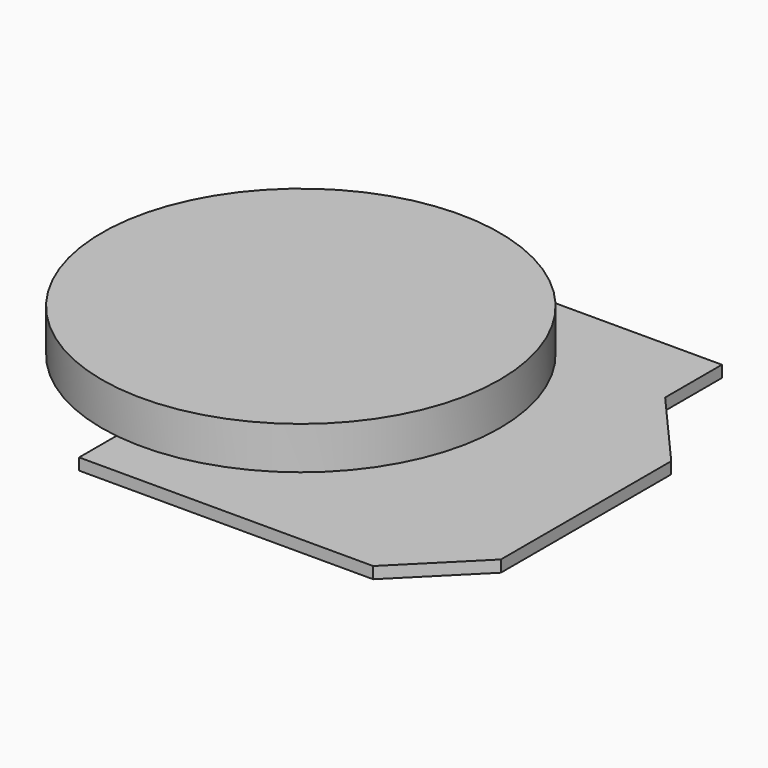
from build123d import *

# Parameters (mm, degrees)
F1_DEPTH = 0.5842
F2_R     = 9.9695
F3_DEPTH = 2.1336


with BuildPart() as f1:
    # F0 (on Top) → F1 (new body)
    with BuildSketch(Plane.XY):
        Polygon((-9.144, 12.2174), (-9.144, -12.2174), (5.588, -12.2174), (9.144, -8.6614), (9.144, 2.0066), (5.588, 6.0706), (5.588, 9.6266), (-3.556, 9.6266), (-6.35, 12.2174), align=None)
    extrude(amount=F1_DEPTH)


with BuildPart() as f3:
    # F2 (on face) → F3 (new body)
    with BuildSketch(Plane.XY.offset(0.5842)):
        with Locations((-7.8105, 0)):
            Circle(F2_R)
    extrude(amount=F3_DEPTH)


solid = Compound([f1.part, f3.part])
